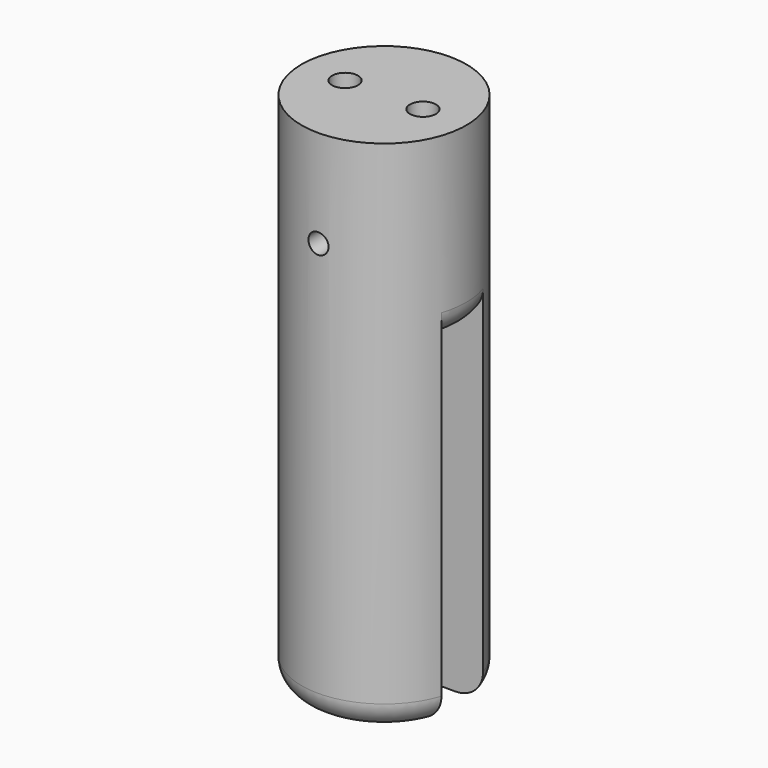
from build123d import *

# Parameters (mm, degrees)
F0_W           = 12.7
F0_H           = 80
F2_W           = 8
F2_H           = 52
F3_DEPTH       = 12.701
F3_DEPTH_BACK  = 12.701
F4_R           = 4
F5_DEPTH       = 5
F6_R           = 2
F7_DEPTH       = 10
F8_R           = 4
F9_R           = 1.55
F10_DEPTH      = 12.7010001
F10_DEPTH_BACK = 12.7010001


with BuildPart() as f1:
    # F0 (on Front) → F1 (revolve)
    with BuildSketch(Plane.XZ):
        with Locations((-6.35, 30)):
            Rectangle(F0_W, F0_H)
    revolve(axis=Axis((0, 0, 30), (0, 0, -1)))

    # F2 (on Right) → F3 (cut, two sides)
    with BuildSketch(Plane.YZ) as f3_sk:
        with Locations((0, 16)):
            Rectangle(F2_W, F2_H)
    extrude(amount=-F3_DEPTH, mode=Mode.SUBTRACT)
    extrude(f3_sk.sketch, amount=F3_DEPTH_BACK, mode=Mode.SUBTRACT)

    # F4 (on Front) → F5 (join, symmetric)
    with BuildSketch(Plane.XZ):
        Circle(F4_R)
    extrude(amount=F5_DEPTH, both=True)

    # F6 (on face) → F7 (cut)
    with BuildSketch(Plane.XY.offset(70)):
        with Locations((-6, 0)):
            Circle(F6_R)
        with Locations((6, 0)):
            Circle(F6_R)
    extrude(amount=-F7_DEPTH, mode=Mode.SUBTRACT)

    # F8
    f8_edges = [f1.edges().sort_by_distance(p)[0] for p in [
        (-12.537366, 2.025944, 42),
        (12.7, 0, 42),
        (-12.537366, -2.025944, 42),
        (0, -12.7, -10),
        (0, 12.7, -10),
    ]]
    fillet(f8_edges, radius=F8_R)

    # F9 (on Front) → F10 (cut, two sides)
    with BuildSketch(Plane.XZ) as f10_sk:
        with Locations((0, 55)):
            Circle(F9_R)
    extrude(amount=F10_DEPTH, mode=Mode.SUBTRACT)
    extrude(f10_sk.sketch, amount=-F10_DEPTH_BACK, mode=Mode.SUBTRACT)


solid = f1.part
